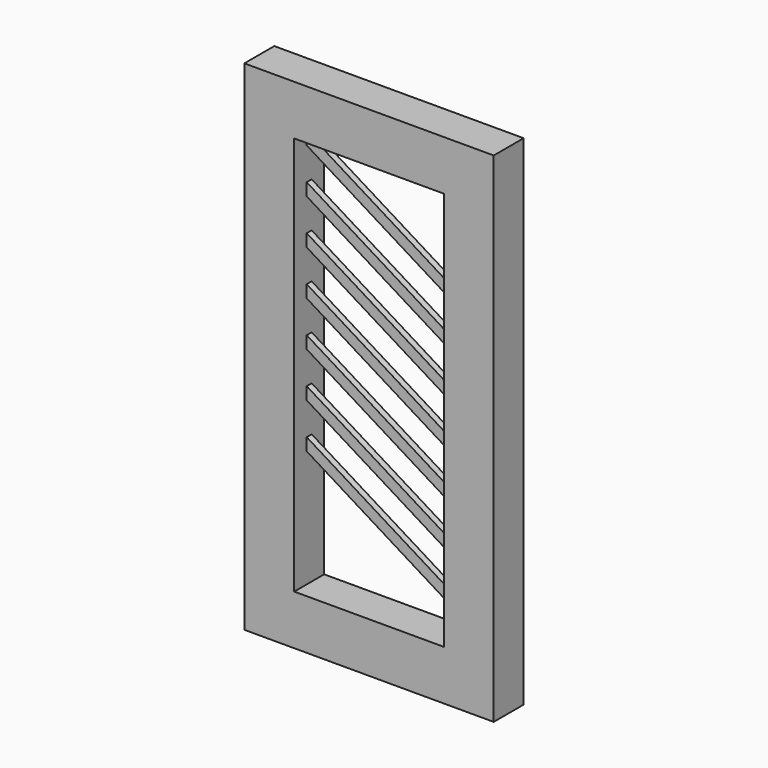
from build123d import *

# Parameters (mm, degrees)
F0_W     = 1000
F0_H     = 2000
F0_W_2   = 600
F0_H_2   = 1600
F1_DEPTH = 75
F3_DEPTH = 12.5


with BuildPart() as f1:
    # F0 (on Front) → F1 (new body, symmetric)
    with BuildSketch(Plane.XZ):
        with Locations((500, 1000)):
            Rectangle(F0_W, F0_H)
        with Locations((500, 1000)):
            Rectangle(F0_W_2, F0_H_2, mode=Mode.SUBTRACT)
    extrude(amount=F1_DEPTH, both=True)

    # F2 (on Front) → F3 (join, symmetric)
    with BuildSketch(Plane.XZ):
        Polygon((200, 1800), (200, 1750), (800, 1380), (800, 1430), align=None)
        Polygon((200, 1620), (200, 1570), (800, 1200), (800, 1250), align=None)
        Polygon((200, 1440), (200, 1390), (800, 1020), (800, 1070), align=None)
        Polygon((200, 1260), (200, 1210), (800, 840), (800, 890), align=None)
        Polygon((200, 1080), (200, 1030), (800, 660), (800, 710), align=None)
        Polygon((200, 900), (200, 850), (800, 480), (800, 530), align=None)
        Polygon((200, 720), (200, 670), (800, 300), (800, 350), align=None)
    extrude(amount=F3_DEPTH, both=True)


solid = f1.part
